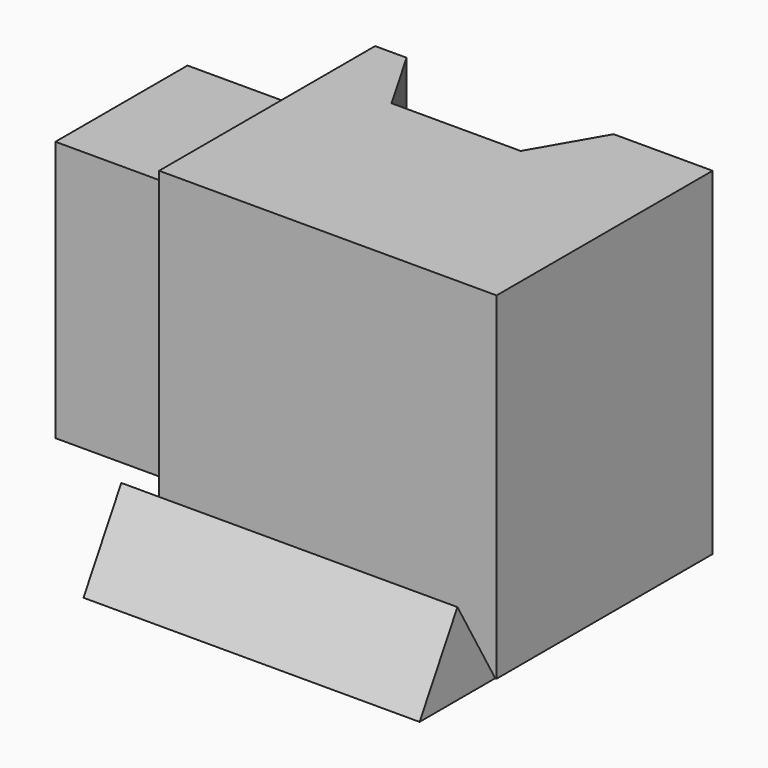
from build123d import *

# Parameters (mm, degrees)
F0_W     = 63.5
F0_H     = 63.5
F1_DEPTH = 50.8
F3_DEPTH = 82.042
F6_DEPTH = 63.246
F7_W     = 31.063381
F7_H     = 49.100179
F8_DEPTH = 25.4


with BuildPart() as f1:
    # F0 (on Front) → F1 (new body)
    with BuildSketch(Plane.XZ):
        Rectangle(F0_W, F0_H)
    extrude(amount=F1_DEPTH)

    # F2 (on face) → F3 (cut)
    with BuildSketch(Plane.XY.offset(31.75)):
        Polygon((13.1318, 0), (-25.8318, 0), (-18.499452, -12.7), (5.799452, -12.7), align=None)
    extrude(amount=-F3_DEPTH, mode=Mode.SUBTRACT)

    # F7 (on face) → F8 (join)
    with BuildSketch(Plane(origin=(-31.75, 0, 0), x_dir=(0, -1, 0), z_dir=(-1, 0, 0))):
        with Locations((27.907608, 0.751532)):
            Rectangle(F7_W, F7_H)
    extrude(amount=F8_DEPTH)


with BuildPart() as f6:
    # F5 (on face) → F6 (new body)
    with BuildSketch(Plane(origin=(-31.75, 0, 0), x_dir=(0, -1, 0), z_dir=(-1, 0, 0))):
        Polygon((59.695451, -16.342627), (50.8, -31.75), (68.590902, -31.75), align=None)
    extrude(amount=-F6_DEPTH)


solid = Compound([f1.part, f6.part])
